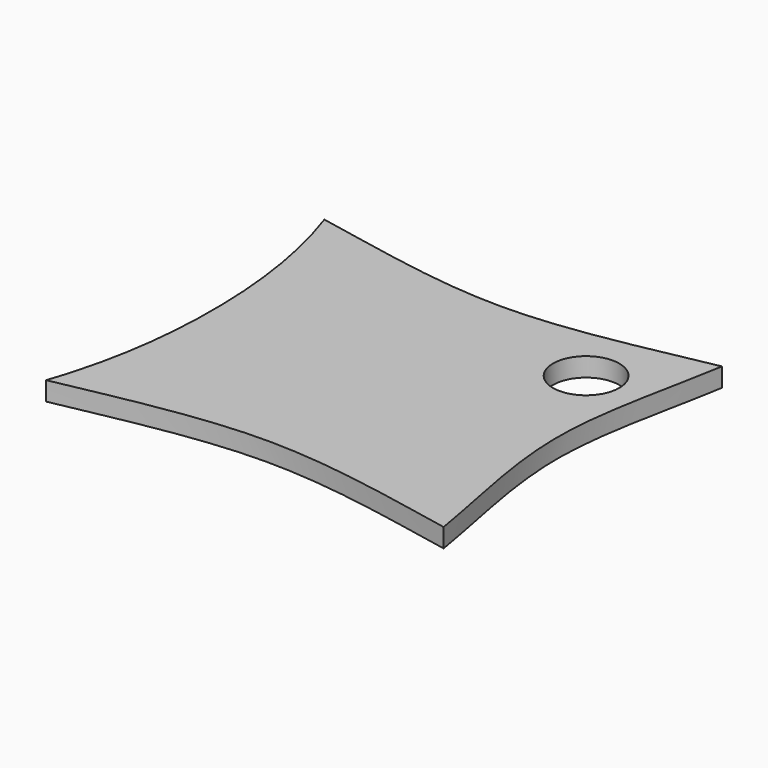
from build123d import *

# Parameters (mm, degrees)
F0_W     = 400
F0_H     = 350
F1_DEPTH = 19
F3_DEPTH = 25
F4_DEPTH = 19.0010001
F5_DEPTH = 19.0010001
F6_DEPTH = 19.0010001
F2_R     = 33.3416918337
F7_DEPTH = 19.0010001


with BuildPart() as f1:
    # F0 (on Top) → F1 (new body)
    with BuildSketch(Plane.XY):
        Rectangle(F0_W, F0_H)
    extrude(amount=F1_DEPTH)

    # F2 (on face) → F3 (cut)
    with BuildSketch(Plane.XY.offset(19)):
        with BuildLine():
            add(Edge.make_bspline(
                [(200, 175), (133.3333333333, 162.1404528618), (0, 130.3916335106), (-133.3333333333, 162.1404528618), (-200, 175)],
                knots=[0, 0, 0, 0, 0.5, 1, 1, 1, 1], degree=3))
            Line((200, 175), (-200, 175))
        make_face()
    extrude(amount=-F3_DEPTH, mode=Mode.SUBTRACT)

    # F2 (on face) → F4 (cut, through all)
    with BuildSketch(Plane.XY.offset(19)):
        with BuildLine():
            add(Edge.make_bspline(
                [(-200, 175), (-180.0667330623, 116.6666666667), (-164.3662169576, 0), (-180.0667330623, -116.6666666667), (-200, -175)],
                knots=[0, 0, 0, 0, 0.5, 1, 1, 1, 1], degree=3))
            Line((-200, 175), (-200, -175))
        make_face()
    extrude(amount=-F4_DEPTH, mode=Mode.SUBTRACT)

    # F2 (on face) → F5 (cut, through all)
    with BuildSketch(Plane.XY.offset(19)):
        with BuildLine():
            Line((-200, -175), (200, -175))
            add(Edge.make_bspline(
                [(-200, -175), (-133.3333333333, -161.9723156095), (0, -131.6082760692), (133.3333333333, -161.9723156095), (200, -175)],
                knots=[0, 0, 0, 0, 0.5, 1, 1, 1, 1], degree=3))
        make_face()
    extrude(amount=-F5_DEPTH, mode=Mode.SUBTRACT)

    # F2 (on face) → F6 (cut, through all)
    with BuildSketch(Plane.XY.offset(19)):
        with BuildLine():
            Line((200, -175), (200, 175))
            add(Edge.make_bspline(
                [(200, 175), (190.449437499, 116.6666666667), (158.1775337458, 0), (190.449437499, -116.6666666667), (200, -175)],
                knots=[0, 0, 0, 0, 0.5, 1, 1, 1, 1], degree=3))
        make_face()
    extrude(amount=-F6_DEPTH, mode=Mode.SUBTRACT)

    # F2 (on face) → F7 (cut, through all)
    with BuildSketch(Plane.XY.offset(19)):
        with Locations((126.6066282988, 95.9379523993)):
            Circle(F2_R)
    extrude(amount=-F7_DEPTH, mode=Mode.SUBTRACT)


solid = f1.part
